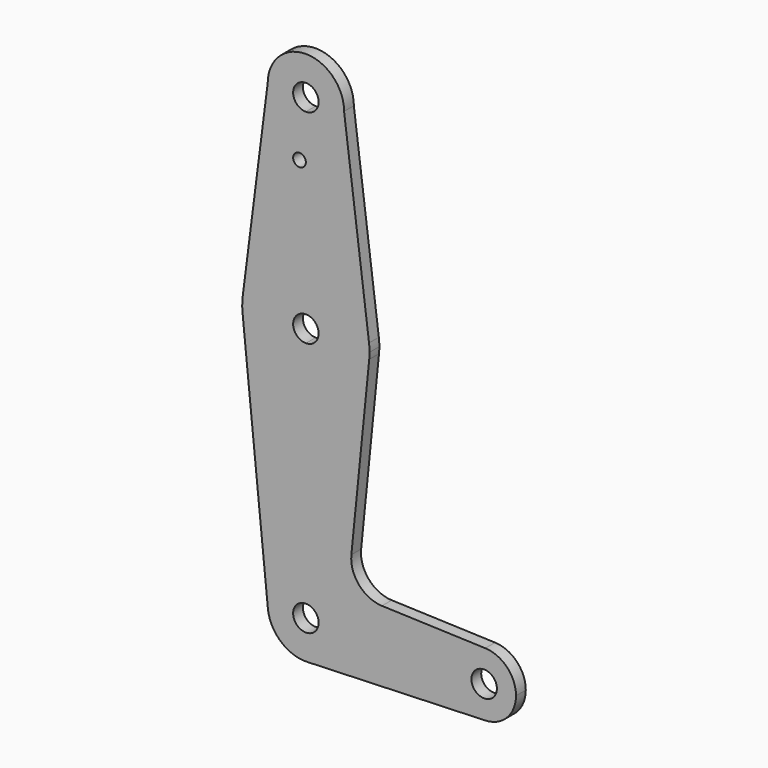
from build123d import *

# Parameters (mm, degrees)
F0_R     = 1.5875
F1_DEPTH = 3.048
F2_DEPTH = 3.048


with BuildPart() as f1:
    # F0 (on Front) → F1 (new body)
    with BuildSketch(Plane.XZ):
        with BuildLine():
            ThreePointArc((-9.525, 50.8), (-6.7351920908, 44.0648079092), (0, 41.275))
            ThreePointArc((0, 41.275), (6.7351920908, 44.0648079092), (9.525, 50.8))
            ThreePointArc((9.525, 50.8), (0, 60.325), (-9.525, 50.8))
        make_face()
        with BuildLine():
            ThreePointArc((3.175, 50.8), (2.2450640303, 48.5549359697), (0, 47.625))
            ThreePointArc((0, 47.625), (-2.2450640303, 53.0450640303), (3.175, 50.8))
        make_face(mode=Mode.SUBTRACT)
        with BuildLine():
            ThreePointArc((9.525, 50.8), (6.7351920908, 44.0648079092), (0, 41.275))
            Line((0, 41.275), (0, 36.5252))
            Line((0, 36.5252), (0, 15.875))
            ThreePointArc((0, 15.875), (10.4912829848, 11.9142186623), (15.7474569485, 2.0082889869))
            Line((15.7474569485, 2.0082889869), (9.525, 50.8))
        make_face()
        with BuildLine():
            Line((0, 36.5252), (0, 41.275))
            ThreePointArc((0, 41.275), (-6.7351920908, 44.0648079092), (-9.525, 50.8))
            Line((-9.525, 50.8), (-15.7474569171, 2.008289233))
            ThreePointArc((-15.7474569171, 2.008289233), (-10.4912828917, 11.9142187443), (0, 15.875))
            Line((0, 15.875), (0, 36.5252))
        make_face()
        with Locations((-1.5875, 36.5252)):
            Circle(F0_R, mode=Mode.SUBTRACT)
        with BuildLine():
            ThreePointArc((15.7474569485, 2.0082889869), (10.4912829848, 11.9142186623), (0, 15.875))
            Line((0, 15.875), (0, 3.175))
            ThreePointArc((0, 3.175), (2.2450640303, 2.2450640303), (3.175, 0))
            ThreePointArc((3.175, 0), (2.2450640303, -2.2450640303), (0, -3.175))
            Line((0, -3.175), (0, -15.875))
            ThreePointArc((0, -15.875), (10.6492737428, -11.7732150983), (15.7954255641, -1.5875))
            ThreePointArc((15.7954255641, -1.5875), (15.8550939106, -0.7947465541), (15.875, 0))
            ThreePointArc((15.875, 0), (15.8430821505, 1.0061674668), (15.7474569485, 2.0082889869))
        make_face()
        with BuildLine():
            Line((0, 3.175), (0, 15.875))
            ThreePointArc((0, 15.875), (-10.4912828917, 11.9142187443), (-15.7474569171, 2.008289233))
            ThreePointArc((-15.7474569171, 2.008289233), (-15.8735876177, 0.2117572724), (-15.7954255641, -1.5875))
            ThreePointArc((-15.7954255641, -1.5875), (-10.6492737428, -11.7732150983), (0, -15.875))
            Line((0, -15.875), (0, -3.175))
            ThreePointArc((0, -3.175), (-3.175, 0), (0, 3.175))
        make_face()
        with BuildLine():
            ThreePointArc((0, -15.875), (-10.6492737428, -11.7732150983), (-15.7954255641, -1.5875))
            Line((-15.7954255641, -1.5875), (-9.4772553384, -64.4525))
            ThreePointArc((-9.4772553384, -64.4525), (-7.063929059, -57.1104357543), (0, -53.975))
            Line((0, -53.975), (0, -15.875))
        make_face()
        with BuildLine():
            ThreePointArc((15.7954255641, -1.5875), (10.6492737428, -11.7732150983), (0, -15.875))
            Line((0, -15.875), (0, -53.975))
            ThreePointArc((0, -53.975), (6.7351920908, -56.7648079092), (9.525, -63.5))
            Line((9.525, -63.5), (36.5125, -63.5))
            ThreePointArc((36.5125, -63.5), (38.9380895153, -57.7883672161), (44.7324052746, -55.5675253854))
            Line((44.7324052746, -55.5675253854), (18.968327868, -54.6502944194))
            ThreePointArc((18.968327868, -54.6502944194), (13.2612039825, -51.9325371041), (11.3408358685, -45.9101078455))
            Line((11.3408358685, -45.9101078455), (15.7954255641, -1.5875))
        make_face()
        with BuildLine():
            ThreePointArc((0, -53.975), (-7.063929059, -57.1104357543), (-9.4772553384, -64.4525))
            ThreePointArc((-9.4772553384, -64.4525), (-6.2623831292, -70.6769201294), (0.3401792411, -73.0189234204))
            ThreePointArc((0.3401792411, -73.0189234204), (6.8544085183, -70.1138270966), (9.525, -63.5))
            Line((9.525, -63.5), (3.175, -63.5))
            ThreePointArc((3.175, -63.5), (-2.2450640303, -65.7450640303), (0, -60.325))
            Line((0, -60.325), (0, -53.975))
        make_face()
        with BuildLine():
            ThreePointArc((9.525, -63.5), (6.8544085183, -70.1138270966), (0.3401792411, -73.0189234204))
            Line((0.3401792411, -73.0189234204), (44.7324052746, -71.4324746146))
            ThreePointArc((44.7324052746, -71.4324746146), (38.9380895153, -69.2116327839), (36.5125, -63.5))
            Line((36.5125, -63.5), (9.525, -63.5))
        make_face()
        with BuildLine():
            ThreePointArc((36.5125, -63.5), (38.9380895153, -69.2116327839), (44.7324052746, -71.4324746146))
            ThreePointArc((44.7324052746, -71.4324746146), (50.1616327839, -69.0119104847), (52.3875, -63.5))
            ThreePointArc((52.3875, -63.5), (50.1616327839, -57.9880895153), (44.7324052746, -55.5675253854))
            ThreePointArc((44.7324052746, -55.5675253854), (38.9380895153, -57.7883672161), (36.5125, -63.5))
        make_face()
        with BuildLine():
            ThreePointArc((47.625, -63.5), (44.45, -66.675), (41.275, -63.5))
            ThreePointArc((41.275, -63.5), (44.45, -60.325), (47.625, -63.5))
        make_face(mode=Mode.SUBTRACT)
    extrude(amount=F1_DEPTH)

    # F0 (on Front) → F2 (join)
    with BuildSketch(Plane.XZ):
        with BuildLine():
            ThreePointArc((9.525, -63.5), (6.7351920908, -56.7648079092), (0, -53.975))
            Line((0, -53.975), (0, -60.325))
            ThreePointArc((0, -60.325), (2.2450640303, -61.2549359697), (3.175, -63.5))
            Line((3.175, -63.5), (9.525, -63.5))
        make_face()
    extrude(amount=F2_DEPTH)


solid = f1.part
